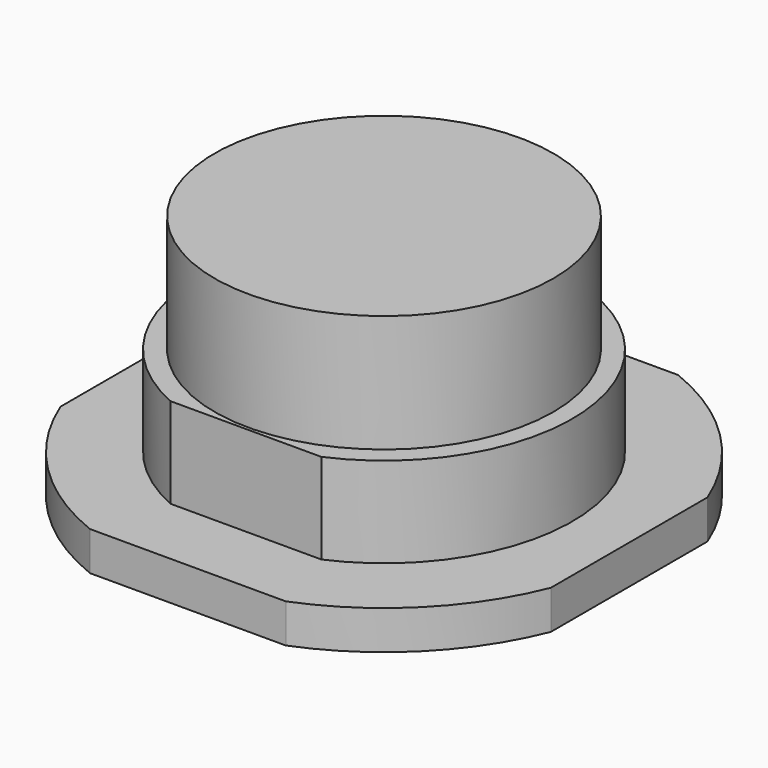
from build123d import *

# Parameters (mm, degrees)
F1_DEPTH = 3.2766
F3_DEPTH = 7.62
F4_R     = 14.2875
F5_DEPTH = 9.906
F6_R     = 0.772384
F7_DEPTH = 15.5575


with BuildPart() as f1:
    # F0 (on Top) → F1 (new body)
    with BuildSketch(Plane.XY):
        with BuildLine():
            Line((8.256221, 20.6756), (-8.256221, 20.6756))
            ThreePointArc((-8.256221, 20.6756), (-15.742389, 15.742389), (-20.6756, 8.256221))
            Line((-20.6756, 8.256221), (-20.6756, -8.256221))
            ThreePointArc((-20.6756, -8.256221), (-15.742389, -15.742389), (-8.256221, -20.6756))
            Line((-8.256221, -20.6756), (8.256221, -20.6756))
            ThreePointArc((8.256221, -20.6756), (15.742389, -15.742389), (20.6756, -8.256221))
            Line((20.6756, -8.256221), (20.6756, 8.256221))
            ThreePointArc((20.6756, 8.256221), (15.742389, 15.742389), (8.256221, 20.6756))
        make_face()
    extrude(amount=F1_DEPTH)

    # F2 (on face) → F3 (join)
    with BuildSketch(Plane.XY.offset(3.2766)):
        with BuildLine():
            Line((-6.35, -14.549678), (6.35, -14.549678))
            ThreePointArc((6.35, -14.549678), (0, 15.875), (-6.35, -14.549678))
        make_face()
    extrude(amount=F3_DEPTH)

    # F4 (on face) → F5 (join)
    with BuildSketch(Plane.XY.offset(10.8966)):
        Circle(F4_R)
    extrude(amount=F5_DEPTH)

    # F6 (on Front) → F7 (join)
    with BuildSketch(Plane.XZ):
        with Locations((0, 18.963106)):
            Circle(F6_R)
    extrude(amount=-F7_DEPTH)


solid = f1.part
